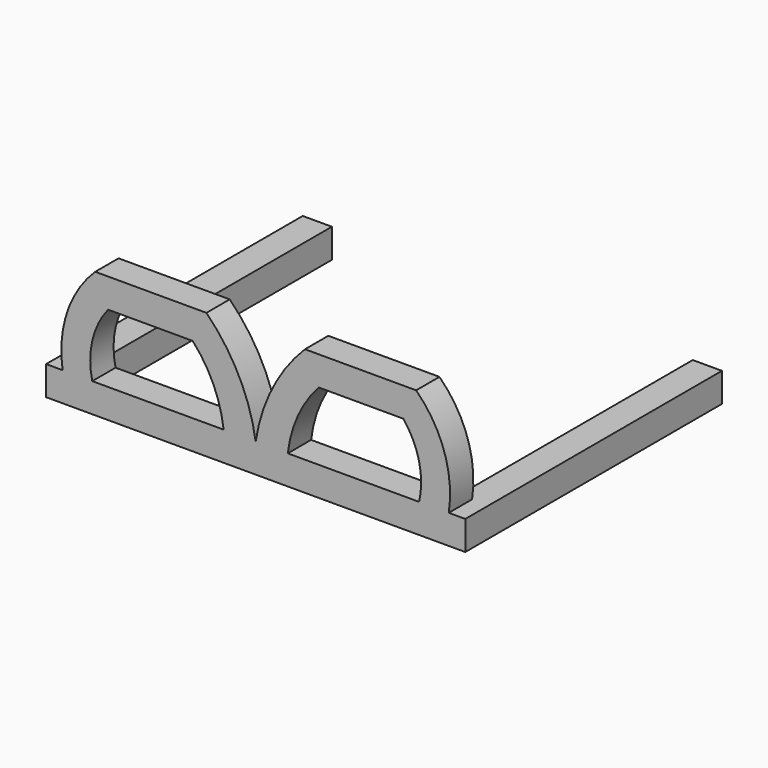
from build123d import *

# Parameters (mm, degrees)
F1_DEPTH = 0.8
F3_DEPTH = 0.8


with BuildPart() as f1:
    # F0 (on Top) → F1 (new body)
    with BuildSketch(Plane.XY):
        Polygon((5.75, -4.4), (5.75, 4.4), (4.95, 4.4), (4.95, -3.6), (-4.95, -3.6), (-4.95, 4.4), (-5.75, 4.4), (-5.75, -4.4), align=None)
    extrude(amount=F1_DEPTH)

    # F2 (on face) → F3 (join)
    with BuildSketch(Plane.XZ.offset(4.4)):
        with BuildLine():
            Line((-1.3517540975, 3.4676363777), (-4.4016095807, 3.4676363777))
            ThreePointArc((-4.4016095807, 3.4676363777), (-5.1731426527, 2.2425551298), (-5.2961143665, 0.8))
            Line((-5.2961143665, 0.8), (-4.4836062007, 0.8))
            ThreePointArc((-4.4836062007, 0.8), (-4.4816891927, 1.7839754849), (-4.0488441208, 2.6676363777))
            Line((-4.0488441208, 2.6676363777), (-1.7281457549, 2.6676363777))
            ThreePointArc((-1.7281457549, 2.6676363777), (-1.1580554374, 1.8001751094), (-0.8803113597, 0.8))
            Line((-0.8803113597, 0.8), (0, 0.8))
            ThreePointArc((0, 0.8), (-0.4621715879, 2.2421077724), (-1.3517540975, 3.4676363777))
        make_face()
        with BuildLine():
            ThreePointArc((1.3517540975, 3.4676363777), (0.4621715879, 2.2421077724), (0, 0.8))
            Line((0, 0.8), (0.8803113597, 0.8))
            ThreePointArc((0.8803113597, 0.8), (1.1580554374, 1.8001751094), (1.7281457549, 2.6676363777))
            Line((1.7281457549, 2.6676363777), (4.0488441208, 2.6676363777))
            ThreePointArc((4.0488441208, 2.6676363777), (4.4816891927, 1.7839754849), (4.4836062007, 0.8))
            Line((4.4836062007, 0.8), (5.2961143665, 0.8))
            ThreePointArc((5.2961143665, 0.8), (5.1731426527, 2.2425551298), (4.4016095807, 3.4676363777))
            Line((4.4016095807, 3.4676363777), (1.3517540975, 3.4676363777))
        make_face()
    extrude(amount=-F3_DEPTH)


solid = f1.part
